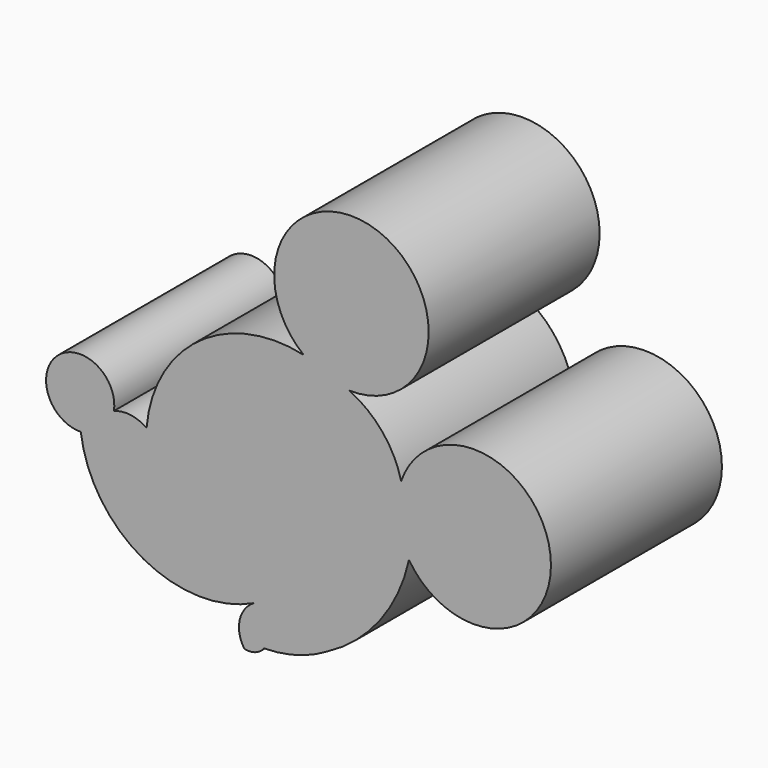
from build123d import *

# Parameters (mm, degrees)
F1_DEPTH = 25.4


with BuildPart() as f1:
    # F0 (on Front) → F1 (new body)
    with BuildSketch(Plane.XZ):
        with BuildLine():
            ThreePointArc((50.3467582166, 39.4456125796), (48.1175299461, 43.8856003207), (44.1820770502, 46.9179525971))
            ThreePointArc((44.1820770502, 46.9179525971), (47.5659634485, 64.7259006233), (38.7646332383, 48.8794408739))
            ThreePointArc((38.7646332383, 48.8794408739), (26.2987566523, 46.275803368), (20.0929734856, 35.1553149521))
            ThreePointArc((20.0929734856, 35.1553149521), (18.2219885535, 35.9056183481), (16.2177495658, 35.6898270547))
            ThreePointArc((16.2177495658, 35.6898270547), (9.5220432011, 39.3133657078), (12.2757116333, 32.2154909372))
            ThreePointArc((12.2757116333, 32.2154909372), (19.7089905688, 21.3456957342), (32.8728567225, 21.0011505594))
            ThreePointArc((32.8728567225, 21.0011505594), (31.1603460575, 18.6777922114), (31.7186452448, 15.8460102975))
            ThreePointArc((31.7186452448, 15.8460102975), (33.0081318761, 15.89619811), (34.0571403503, 16.6477803141))
            ThreePointArc((34.0571403503, 16.6477803141), (37.9739759469, 17.2159588491), (41.60714522, 18.7858343124))
            ThreePointArc((41.60714522, 18.7858343124), (47.8408312593, 24.0837564297), (51.2808002532, 31.5062515438))
            ThreePointArc((51.2808002532, 31.5062515438), (68.0906934805, 37.5085092545), (50.3467582166, 39.4456125796))
        make_face()
        with BuildLine():
            ThreePointArc((33.2553721964, 21.1911462247), (33.0648155163, 21.0947369646), (32.8728567225, 21.0011505594))
            ThreePointArc((32.8728567225, 21.0011505594), (33.0612785402, 21.1018579065), (33.2553721964, 21.1911462247))
        make_face(mode=Mode.SUBTRACT)
        with BuildLine():
            ThreePointArc((33.2553721964, 21.1911462247), (33.0612785402, 21.1018579065), (32.8728567225, 21.0011505594))
            ThreePointArc((32.8728567225, 21.0011505594), (33.0648155163, 21.0947369646), (33.2553721964, 21.1911462247))
        make_face()
    extrude(amount=F1_DEPTH)


solid = f1.part
